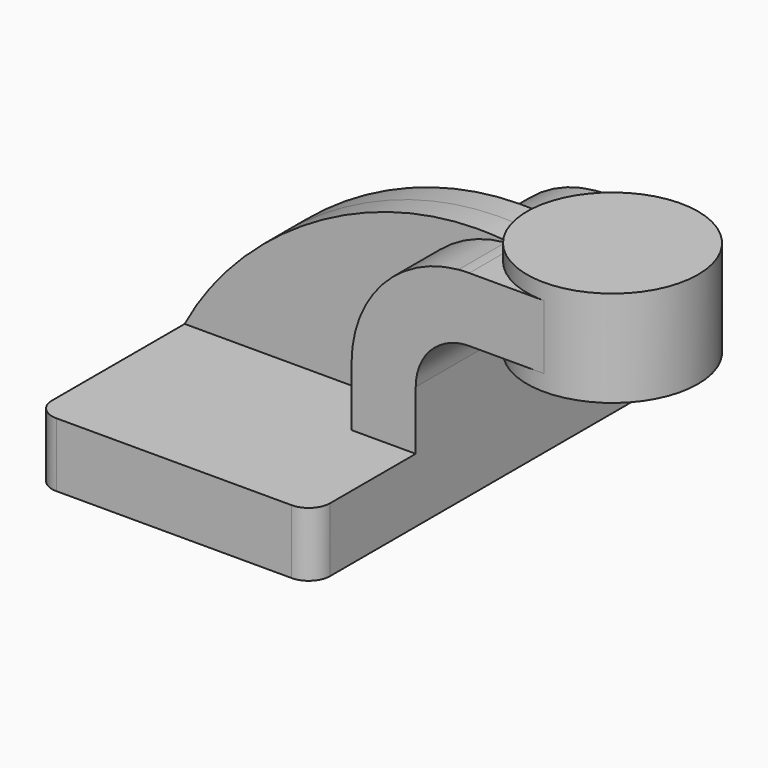
from build123d import *

# Parameters (mm, degrees)
F1_DEPTH = 63.5
F2_DEPTH = 25.4
F3_DEPTH = 7.9375
F5_R     = 6.35


with BuildPart() as f1:
    # F0 (on Front) → F1 (new body, symmetric)
    with BuildSketch(Plane.XZ):
        Polygon((22.225, 9.525), (-41.275, 9.525), (-41.275, -9.525), (41.275, -9.525), (41.275, 9.525), align=None)
    extrude(amount=F1_DEPTH, both=True)

    # F0 (on Front) → F2 (join, symmetric)
    with BuildSketch(Plane.XZ):
        with BuildLine():
            Line((22.225, 27.0002), (22.225, 9.525))
            Line((22.225, 9.525), (41.275, 9.525))
            Line((41.275, 9.525), (41.275, 27.0002))
            ThreePointArc((41.275, 27.0002), (44.8532778758, 37.040431571), (53.975, 42.5544598667))
            Line((53.975, 42.5544598667), (53.975, 61.7805824016))
            ThreePointArc((53.975, 61.7805824016), (31.3561780653, 50.5466301965), (22.225, 27.0002))
        make_face()
        with BuildLine():
            ThreePointArc((57.15, 61.9252), (55.5608540619, 61.8890268675), (53.975, 61.7805824016))
            Line((53.975, 61.7805824016), (53.975, 42.5544598667))
            ThreePointArc((53.975, 42.5544598667), (55.5544202282, 42.794811429), (57.15, 42.8752))
            Line((57.15, 42.8752), (79.375, 42.8752))
            Line((79.375, 42.8752), (79.375, 61.9252))
            Line((79.375, 61.9252), (57.15, 61.9252))
        make_face()
    extrude(amount=F2_DEPTH, both=True)

    # F5
    f5_edges = [f1.edges().sort_by_distance(p)[0] for p in [
        (41.275, -63.5, 0),
        (-41.275, -63.5, 0),
        (41.275, 63.5, 0),
        (-41.275, 63.5, 0),
    ]]
    fillet(f5_edges, radius=F5_R)


with BuildPart() as f3:
    # F0 (on Front) → F3 (new body, symmetric)
    with BuildSketch(Plane.XZ):
        with BuildLine():
            add(Edge.make_bspline(
                [(-41.275, 9.525), (-25.1638375289, 40.227826574), (14.1366621508, 66.0403572169), (53.975, 62.2872734092)],
                knots=[0, 0, 0, 0, 108.6196284342, 108.6196284342, 108.6196284342, 108.6196284342], degree=3))
            Line((-41.275, 9.525), (22.225, 9.525))
            Line((22.225, 9.525), (22.225, 27.0002))
            ThreePointArc((22.225, 27.0002), (31.3561780653, 50.5466301965), (53.975, 61.7805824016))
            Line((53.975, 61.7805824016), (53.975, 62.2872734092))
        make_face()
        with BuildLine():
            add(Edge.make_bspline(
                [(53.975, 62.2872734092), (55.0330953962, 62.187592526), (56.0915701937, 62.0670554931), (57.15, 61.9252)],
                knots=[108.6196284342, 108.6196284342, 108.6196284342, 108.6196284342, 111.5045361635, 111.5045361635, 111.5045361635, 111.5045361635], degree=3))
            Line((53.975, 62.2872734092), (53.975, 61.7805824016))
            ThreePointArc((53.975, 61.7805824016), (55.5608540619, 61.8890268675), (57.15, 61.9252))
        make_face()
        with BuildLine():
            add(Edge.make_bspline(
                [(-41.275, 9.525), (-25.1638375289, 40.227826574), (14.1366621508, 66.0403572169), (53.975, 62.2872734092)],
                knots=[0, 0, 0, 0, 108.6196284342, 108.6196284342, 108.6196284342, 108.6196284342], degree=3))
            Line((-41.275, 9.525), (22.225, 9.525))
            Line((22.225, 9.525), (22.225, 27.0002))
            ThreePointArc((22.225, 27.0002), (31.3561780653, 50.5466301965), (53.975, 61.7805824016))
            Line((53.975, 61.7805824016), (53.975, 62.2872734092))
        make_face()
    extrude(amount=F3_DEPTH, both=True)


with BuildPart() as f4:
    # F0 (on Front) → F4 (revolve)
    with BuildSketch(Plane.XZ):
        Polygon((104.775, 66.675), (79.375, 66.675), (79.375, 61.9252), (79.375, 42.8752), (79.375, 38.1), (104.775, 38.1), align=None)
    revolve(axis=Axis((79.375, 0, 52.3875), (0, 0, 1)))


solid = Compound([f1.part, f3.part, f4.part])
